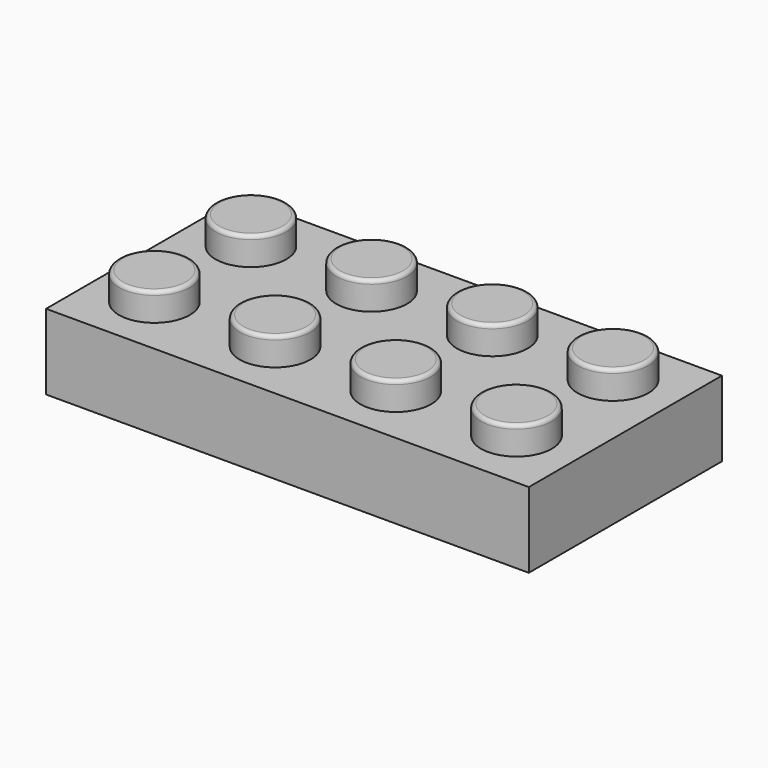
from build123d import *

# Parameters (mm, degrees)
F0_W     = 32.004
F0_H     = 16.002
F1_DEPTH = 5.0038
F2_R     = 2.3495
F3_DEPTH = 1.8542
F4_R     = 0.254
F5_W     = 29.0068
F5_H     = 13.0048
F5_R     = 3.2512
F5_R_2   = 2.4003
F6_DEPTH = 3.5052


with BuildPart() as f1:
    # F0 (on Top) → F1 (new body)
    with BuildSketch(Plane.XY):
        with Locations((16.002, 8.001)):
            Rectangle(F0_W, F0_H)
    extrude(amount=F1_DEPTH)

    # F2 (on face) → F3 (join)
    with BuildSketch(Plane.XY.offset(5.0038)):
        with Locations((3.8989, 4.1021)):
            Circle(F2_R)
        with Locations((11.8999, 4.1021)):
            Circle(F2_R)
        with Locations((19.9009, 4.1021)):
            Circle(F2_R)
        with Locations((3.8989, 12.1031)):
            Circle(F2_R)
        with Locations((11.8999, 12.1031)):
            Circle(F2_R)
        with Locations((19.9009, 12.1031)):
            Circle(F2_R)
        with Locations((27.9019, 12.1031)):
            Circle(F2_R)
        with Locations((27.9019, 4.1021)):
            Circle(F2_R)
    extrude(amount=F3_DEPTH)

    # F4
    f4_edges = [f1.edges().sort_by_distance(p)[0] for p in [
        (1.5494, 4.1021, 6.858),
        (9.5504, 4.1021, 6.858),
        (17.5514, 4.1021, 6.858),
        (25.5524, 4.1021, 6.858),
        (25.5524, 12.1031, 6.858),
        (17.5514, 12.1031, 6.858),
        (9.5504, 12.1031, 6.858),
        (1.5494, 12.1031, 6.858),
    ]]
    fillet(f4_edges, radius=F4_R)

    # F5 (on face) → F6 (cut)
    with BuildSketch(Plane(origin=(0, 0, 0), x_dir=(1, 0, 0), z_dir=(0, 0, -1))):
        with Locations((16.002, -8.001)):
            Rectangle(F5_W, F5_H)
        with Locations((8.001, -8.001)):
            Circle(F5_R, mode=Mode.SUBTRACT)
        with Locations((16.002, -8.001)):
            Circle(F5_R, mode=Mode.SUBTRACT)
        with Locations((24.003, -8.001)):
            Circle(F5_R, mode=Mode.SUBTRACT)
        with Locations((24.003, -8.001)):
            Circle(F5_R_2)
        with Locations((16.002, -8.001)):
            Circle(F5_R_2)
        with Locations((8.001, -8.001)):
            Circle(F5_R_2)
    extrude(amount=-F6_DEPTH, mode=Mode.SUBTRACT)


solid = f1.part
